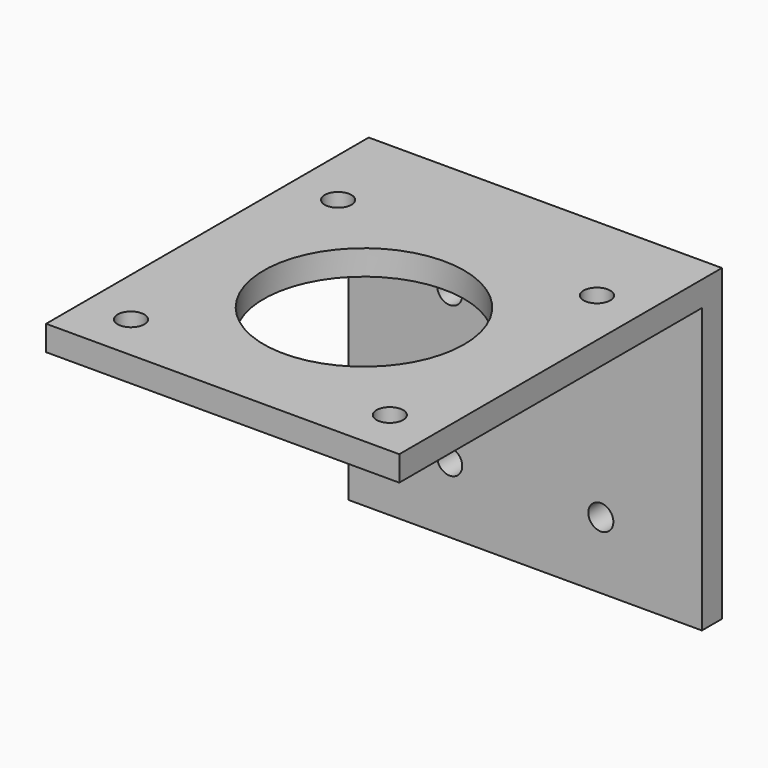
from build123d import *

# Parameters (mm, degrees)
SKETCH_W     = 42.3
SKETCH_H     = 48.3
SKETCH_R     = 1.6
SKETCH_R_2   = 12
PAD_DEPTH    = 3
SKETCH001_W  = 42.3
SKETCH001_H  = 3
PAD001_DEPTH = 34
SKETCH002_R  = 1.5
POCKET_DEPTH = 48.301


with BuildPart() as part:
    # Sketch → Pad (new body)
    with BuildSketch(Plane.XY):
        with Locations((21.15, 24.15)):
            Rectangle(SKETCH_W, SKETCH_H)
        with Locations((5.65, 36.65)):
            Circle(SKETCH_R, mode=Mode.SUBTRACT)
        with Locations((36.65, 36.65)):
            Circle(SKETCH_R, mode=Mode.SUBTRACT)
        with Locations((5.65, 5.65)):
            Circle(SKETCH_R, mode=Mode.SUBTRACT)
        with Locations((36.65, 5.65)):
            Circle(SKETCH_R, mode=Mode.SUBTRACT)
        with Locations((21.15, 21.15)):
            Circle(SKETCH_R_2, mode=Mode.SUBTRACT)
    extrude(amount=PAD_DEPTH)

    # Sketch001 → Pad001 (new body)
    with BuildSketch(Plane(origin=(0, 0, 0), x_dir=(1, 0, 0), z_dir=(0, 0, -1))):
        with Locations((21.15, -46.8)):
            Rectangle(SKETCH001_W, SKETCH001_H)
    extrude(amount=PAD001_DEPTH)

    # Sketch002 → Pocket (cut, through all)
    with BuildSketch(Plane(origin=(0, 48.3, 0), x_dir=(-1, 0, 0), z_dir=(0, 1, 0))):
        with Locations((-30.2, -8)):
            Circle(SKETCH002_R)
        with Locations((-12.1, -8)):
            Circle(SKETCH002_R)
        with Locations((-30.2, -26)):
            Circle(SKETCH002_R)
        with Locations((-12.1, -26)):
            Circle(SKETCH002_R)
    extrude(amount=-POCKET_DEPTH, mode=Mode.SUBTRACT)


solid = part.part
